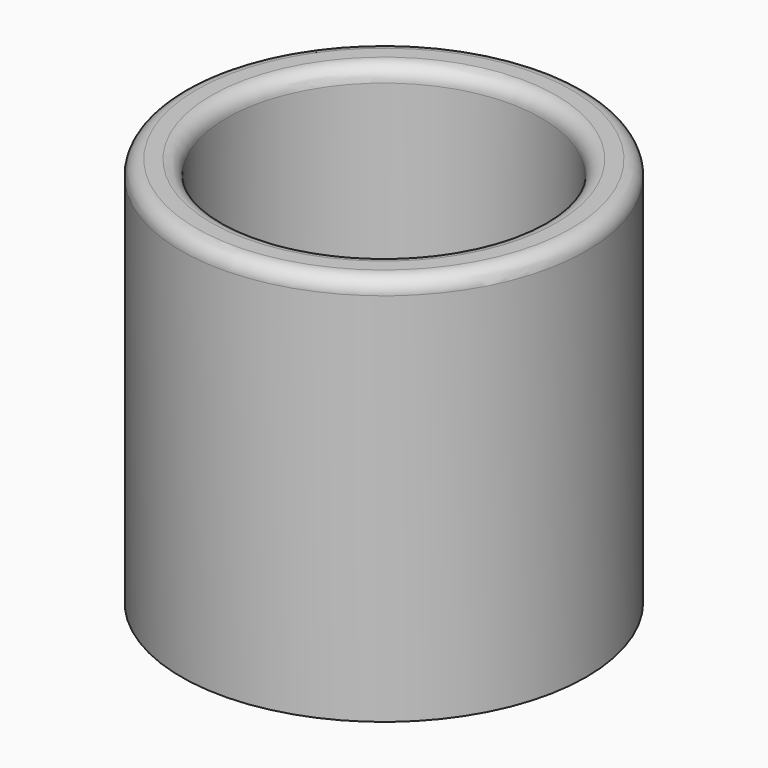
from build123d import *

# Parameters (mm, degrees)
F0_R           = 42.8625
F0_R_2         = 33.3375
F1_DEPTH       = 69.85
F2_R           = 42.8625
F3_DEPTH       = 12.7
F5_D           = 6.7564
F5_CSINK_D     = 13.4874
F5_CSINK_ANGLE = 82
F6_R           = 3.175


with BuildPart() as f1:
    # F0 (on Top) → F1 (new body)
    with BuildSketch(Plane.XY):
        Circle(F0_R)
        Circle(F0_R_2, mode=Mode.SUBTRACT)
    extrude(amount=F1_DEPTH)

    # F2 (on face) → F3 (join)
    with BuildSketch(Plane(origin=(0, 0, 0), x_dir=(1, 0, 0), z_dir=(0, 0, -1))):
        Circle(F2_R)
    extrude(amount=F3_DEPTH)

    # F5 (through all)
    with Locations(Plane.XY):
        with Locations((0, 0)):
            CounterSinkHole(F5_D / 2, F5_CSINK_D / 2, counter_sink_angle=F5_CSINK_ANGLE)

    # F6
    f6_edges = [f1.edges().sort_by_distance(p)[0] for p in [
        (-33.3375, 0, 0),
        (-33.3375, 0, 69.85),
        (-42.8625, 0, 69.85),
    ]]
    fillet(f6_edges, radius=F6_R)


solid = f1.part
